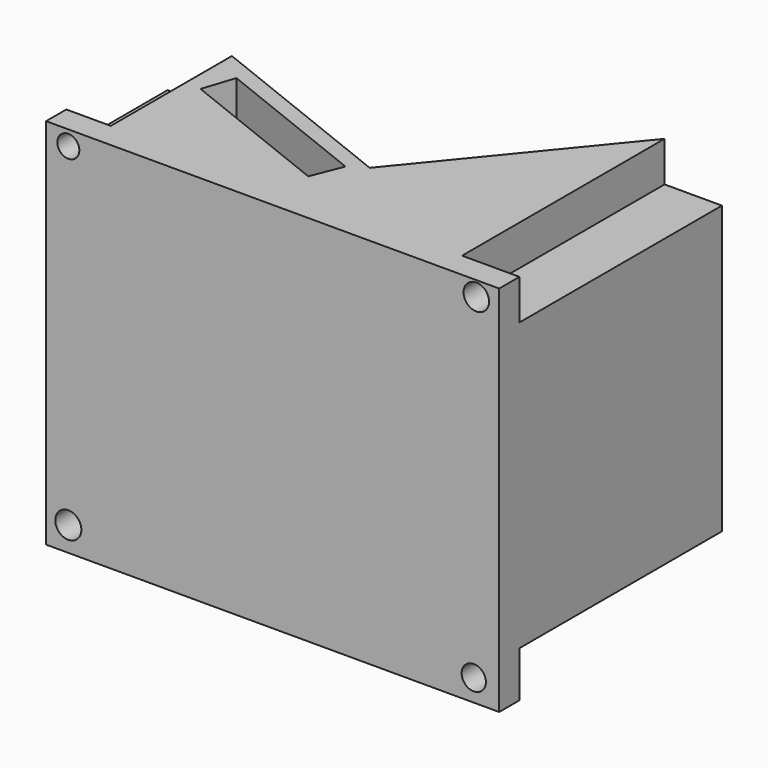
from build123d import *

# Parameters (mm, degrees)
F0_W      = 90.9466184676
F0_H      = 74.8294964433
F2_DEPTH  = 5.08
F3_DEPTH  = 50.8
F5_DEPTH  = 76.2
F6_DEPTH  = 25.4
F8_DEPTH  = 101.6
F9_R      = 2.2127457179
F9_R_2    = 2.6181554233
F9_R_3    = 2.4324763665
F9_R_4    = 2.5640554726
F10_DEPTH = 25.4


with BuildPart() as f2:
    # F0 (on Front) → F2 (new body)
    with BuildSketch(Plane.XZ):
        with Locations((8.6341705173, 1.7268359661)):
            Rectangle(F0_W, F0_H)
    extrude(amount=F2_DEPTH)

    # F1 (on face) → F3 (join)
    with BuildSketch(Plane.XZ):
        Polygon((-27.9171578586, 32.2342440486), (-36.8391387165, 32.2342440486), (-36.8391387165, 2.734344452), (-36.5513302386, -26.7659369856), (-26.765935123, -26.7659369856), (-26.765935123, -34.8244979978), (43.1708656251, -34.8244979978), (43.1708656251, -26.4781285077), (54.1074797511, -26.4781285077), (54.1074797511, 31.0830231756), (42.5952523947, 31.0830231756), (42.5952523947, 39.1415841877), (-27.9171578586, 39.1415841877), align=None)
    extrude(amount=-F3_DEPTH)

    # F4 (on face) → F5 (cut)
    with BuildSketch(Plane.XY.offset(39.1415841877)):
        Polygon((-27.9171578586, 50.8), (-27.9171578586, 30.387243256), (12.6576088369, 14.234690927), (42.5952523947, 50.8), align=None)
    extrude(amount=-F5_DEPTH, mode=Mode.SUBTRACT)

    # F6 (cut): a face of the model
    f6_faces = [f2.faces().sort_by_distance(p)[0] for p in [
        (-32.3426594813, 50.8, 2.8940476275),
    ]]
    extrude(f6_faces, amount=-F6_DEPTH, mode=Mode.SUBTRACT)

    # F7 (on face) → F8 (cut)
    with BuildSketch(Plane(origin=(0, 0, -34.8244979978), x_dir=(1, 0, 0), z_dir=(0, 0, -1))):
        Polygon((-24.7789256071, -18.5888221988), (-22.6721912622, -24.9785389751), (9.4293939445, -12.1991054226), (6.9454660549, -5.9595469581), align=None)
    extrude(amount=-F8_DEPTH, mode=Mode.SUBTRACT)

    # F9 (on face) → F10 (cut)
    with BuildSketch(Plane(origin=(0, 0, 0), x_dir=(-1, 0, 0), z_dir=(0, 1, 0))):
        with Locations((32.3781482875, 36.15520522)):
            Circle(F9_R)
        with Locations((32.3781482875, -30.7667031884)):
            Circle(F9_R_2)
        with Locations((-49.00373891, -31.279515475)):
            Circle(F9_R_3)
        with Locations((-49.5165549219, 36.15520522)):
            Circle(F9_R_4)
    extrude(amount=-F10_DEPTH, mode=Mode.SUBTRACT)


solid = f2.part
